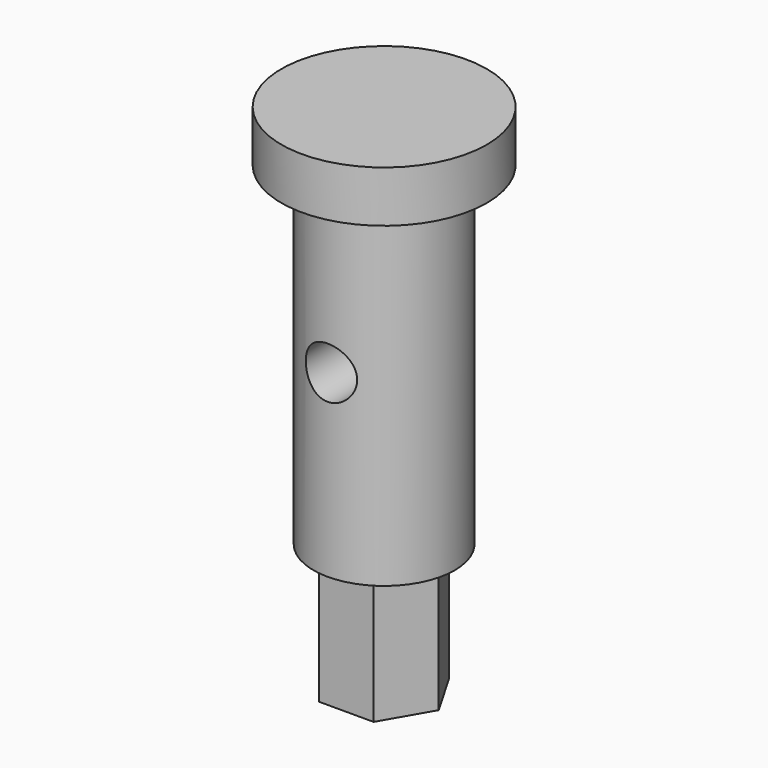
from build123d import *

# Parameters (mm, degrees)
F0_R     = 4
F0_R_2   = 2.75
F1_DEPTH = 2
F2_DEPTH = 13
F4_DEPTH = 5
F8_R     = 1
F9_DEPTH = 45


with BuildPart() as f1:
    # F0 (on Top) → F1 (new body)
    with BuildSketch(Plane.XY):
        Circle(F0_R)
        Circle(F0_R_2, mode=Mode.SUBTRACT)
        Circle(F0_R_2)
    extrude(amount=F1_DEPTH)

    # F0 (on Top) → F2 (join)
    with BuildSketch(Plane.XY):
        Circle(F0_R_2)
    extrude(amount=-F2_DEPTH)

    # F3 (on face) → F4 (join)
    with BuildSketch(Plane(origin=(0, 0, -13), x_dir=(1, 0, 0), z_dir=(0, 0, -1))):
        Polygon((1.0625, -1.840304), (2.125, 0), (1.0625, 1.840304), (-1.0625, 1.840304), (-2.125, 0), (-1.0625, -1.840304), align=None)
    extrude(amount=F4_DEPTH)

    # F8 (on offset) → F9 (cut)
    with BuildSketch(Plane.XZ.offset(25)):
        with Locations((0, -6)):
            Circle(F8_R)
    extrude(amount=-F9_DEPTH, mode=Mode.SUBTRACT)


solid = f1.part
